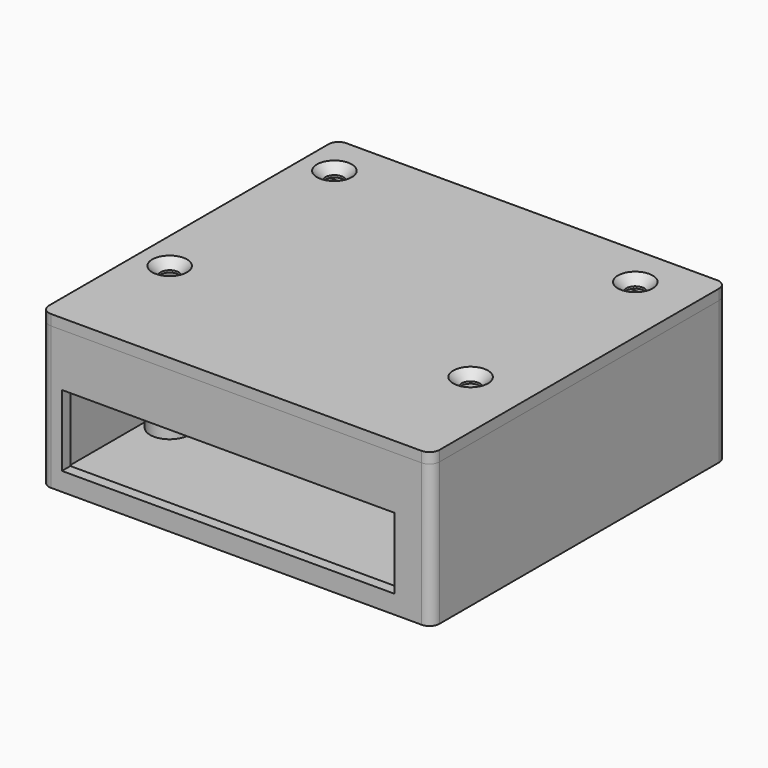
from build123d import *

# Parameters (mm, degrees)
BOX003_W          = 63
BOX003_H          = 10
BOX003_DEPTH      = 13.5
BOX002_W          = 15
BOX002_H          = 14
BOX002_DEPTH      = 8.5
CYLINDER003_R     = 1.7
CYLINDER003_DEPTH = 35
CYLINDER002_R     = 1.7
CYLINDER002_DEPTH = 33
CYLINDER001_R     = 1.7
CYLINDER001_DEPTH = 35
CYLINDER_R        = 1.7
CYLINDER_DEPTH    = 35
CYLINDER007_R     = 3.7
CYLINDER007_DEPTH = 3
CYLINDER006_R     = 3.7
CYLINDER006_DEPTH = 3
CYLINDER005_R     = 3.7
CYLINDER005_DEPTH = 3
CYLINDER004_R     = 3.7
CYLINDER004_DEPTH = 3
BOX_W             = 70
BOX_H             = 66
BOX_DEPTH         = 25
BOX001_W          = 74
BOX001_H          = 70
BOX001_DEPTH      = 27
FILLET_R          = 2
FILLET001_R       = 1.9
CHAMFER001_SIZE   = 1.6
BOX008_W          = 10
BOX008_H          = 10
BOX008_DEPTH      = 2
BOX007_W          = 10
BOX007_H          = 10
BOX007_DEPTH      = 2
BOX006_W          = 64.6
BOX006_H          = 61.6
BOX006_DEPTH      = 2
FILLET004_R       = 1.9
BOX005_W          = 68.6
BOX005_H          = 65.6
BOX005_DEPTH      = 2
FILLET003_R       = 1.9
BOX004_W          = 74
BOX004_H          = 70
BOX004_DEPTH      = 2
FILLET002_R       = 1.9
CHAMFER_SIZE      = 1.6
FILLET005_R       = 1.9


with BuildPart() as obj1:
    # Box003 → Box003 (new body)
    with BuildSketch(Plane(origin=(2, -28, 1.5), x_dir=(1, 0, 0), z_dir=(0, 0, 1))):
        with Locations((31.5, 5)):
            Rectangle(BOX003_W, BOX003_H)
    extrude(amount=BOX003_DEPTH)


with BuildPart() as obj2:
    # Box002 → Box002 (new body)
    with BuildSketch(Plane(origin=(-2, 16, 3), x_dir=(1, 0, 0), z_dir=(0, 0, 1))):
        with Locations((7.5, 7)):
            Rectangle(BOX002_W, BOX002_H)
    extrude(amount=BOX002_DEPTH)


with BuildPart() as zylinder003:
    # Cylinder003 → Cylinder003 (new body)
    with BuildSketch(Plane(origin=(4, 42, -2), x_dir=(1, 0, 0), z_dir=(0, 0, 1))):
        Circle(CYLINDER003_R)
    extrude(amount=CYLINDER003_DEPTH)


with BuildPart() as zylinder002:
    # Cylinder002 → Cylinder002 (new body)
    with BuildSketch(Plane(origin=(61, 42, -2), x_dir=(1, 0, 0), z_dir=(0, 0, 1))):
        Circle(CYLINDER002_R)
    extrude(amount=CYLINDER002_DEPTH)


with BuildPart() as zylinder001:
    # Cylinder001 → Cylinder001 (new body)
    with BuildSketch(Plane(origin=(61, 3, -2), x_dir=(1, 0, 0), z_dir=(0, 0, 1))):
        Circle(CYLINDER001_R)
    extrude(amount=CYLINDER001_DEPTH)


with BuildPart() as zylinder:
    # Cylinder → Cylinder (new body)
    with BuildSketch(Plane(origin=(4, 3, -2), x_dir=(1, 0, 0), z_dir=(0, 0, 1))):
        Circle(CYLINDER_R)
    extrude(amount=CYLINDER_DEPTH)


with BuildPart() as zylinder007:
    # Cylinder007 → Cylinder007 (new body)
    with BuildSketch(Plane(origin=(4, 42, 0), x_dir=(1, 0, 0), z_dir=(0, 0, 1))):
        Circle(CYLINDER007_R)
    extrude(amount=CYLINDER007_DEPTH)


with BuildPart() as zylinder006:
    # Cylinder006 → Cylinder006 (new body)
    with BuildSketch(Plane(origin=(61, 3, 0), x_dir=(1, 0, 0), z_dir=(0, 0, 1))):
        Circle(CYLINDER006_R)
    extrude(amount=CYLINDER006_DEPTH)


with BuildPart() as zylinder005:
    # Cylinder005 → Cylinder005 (new body)
    with BuildSketch(Plane(origin=(61, 42, 0), x_dir=(1, 0, 0), z_dir=(0, 0, 1))):
        Circle(CYLINDER005_R)
    extrude(amount=CYLINDER005_DEPTH)


with BuildPart() as zylinder004:
    # Cylinder004 → Cylinder004 (new body)
    with BuildSketch(Plane(origin=(4, 3, 0), x_dir=(1, 0, 0), z_dir=(0, 0, 1))):
        Circle(CYLINDER004_R)
    extrude(amount=CYLINDER004_DEPTH)


with BuildPart() as obj3:
    # Box → Box (new body)
    with BuildSketch(Plane(origin=(0, -18, 0), x_dir=(1, 0, 0), z_dir=(0, 0, 1))):
        with Locations((35, 33)):
            Rectangle(BOX_W, BOX_H)
    extrude(amount=BOX_DEPTH)


with BuildPart() as housing:
    # Box001 → Box001 (new body)
    with BuildSketch(Plane(origin=(-2, -20, -2), x_dir=(1, 0, 0), z_dir=(0, 0, 1))):
        with Locations((37, 35)):
            Rectangle(BOX001_W, BOX001_H)
    extrude(amount=BOX001_DEPTH)

    # Cut: cut obj3
    add(obj3.part, mode=Mode.SUBTRACT)

    # Fusion: union Zylinder004
    add(zylinder004.part)

    # Fusion001: union Zylinder005
    add(zylinder005.part)

    # Fusion002: union Zylinder006
    add(zylinder006.part)

    # Fusion003: union Zylinder007
    add(zylinder007.part)

    # Cut001: cut Zylinder
    add(zylinder.part, mode=Mode.SUBTRACT)

    # Cut002: cut Zylinder001
    add(zylinder001.part, mode=Mode.SUBTRACT)

    # Cut003: cut Zylinder002
    add(zylinder002.part, mode=Mode.SUBTRACT)

    # Cut004: cut Zylinder003
    add(zylinder003.part, mode=Mode.SUBTRACT)

    # Cut005: cut obj2
    add(obj2.part, mode=Mode.SUBTRACT)

    # Cut006: cut obj1
    add(obj1.part, mode=Mode.SUBTRACT)

    # Fillet
    fillet_edges = [housing.edges().sort_by_distance(p)[0] for p in [
        (-1, 16, 3),
        (-1, 16, 11.5),
        (-1, 30, 3),
        (-1, 30, 11.5),
    ]]
    fillet(fillet_edges, radius=FILLET_R)

    # Fillet001
    fillet001_edges = [housing.edges().sort_by_distance(p)[0] for p in [
        (-2, -20, 11.5),
        (-2, 50, 11.5),
        (72, -20, 11.5),
        (72, 50, 11.5),
        (0, -18, 12.5),
        (0, 48, 12.5),
        (70, -18, 12.5),
        (70, 48, 12.5),
    ]]
    fillet(fillet001_edges, radius=FILLET001_R)

    # Chamfer001
    chamfer001_edges = [housing.edges().sort_by_distance(p)[0] for p in [
        (2.3, 3, -2),
        (59.3, 3, -2),
        (2.3, 42, -2),
        (59.3, 42, -2),
    ]]
    chamfer(chamfer001_edges, length=CHAMFER001_SIZE)


with BuildPart() as obj4:
    # Box008 → Box008 (new body)
    with BuildSketch(Plane(origin=(0, 35.8, 22.99), x_dir=(1, 0, 0), z_dir=(0, 0, 1))):
        with Locations((5, 5)):
            Rectangle(BOX008_W, BOX008_H)
    extrude(amount=BOX008_DEPTH)


with BuildPart() as obj5:
    # Box007 → Box007 (new body)
    with BuildSketch(Plane(origin=(0, -2, 22.99), x_dir=(1, 0, 0), z_dir=(0, 0, 1))):
        with Locations((5, 5)):
            Rectangle(BOX007_W, BOX007_H)
    extrude(amount=BOX007_DEPTH)


with BuildPart() as fillet004:
    # Box006 → Box006 (new body)
    with BuildSketch(Plane(origin=(2.2, -15.8, 23), x_dir=(1, 0, 0), z_dir=(0, 0, 1))):
        with Locations((32.3, 30.8)):
            Rectangle(BOX006_W, BOX006_H)
    extrude(amount=BOX006_DEPTH)

    # Fillet004
    fillet004_edges = [fillet004.edges().sort_by_distance(p)[0] for p in [
        (2.2, -15.8, 24),
        (2.2, 45.8, 24),
        (66.8, -15.8, 24),
        (66.8, 45.8, 24),
    ]]
    fillet(fillet004_edges, radius=FILLET004_R)


with BuildPart() as cut007:
    # Box005 → Box005 (new body)
    with BuildSketch(Plane(origin=(0.2, -17.8, 23), x_dir=(1, 0, 0), z_dir=(0, 0, 1))):
        with Locations((34.3, 32.8)):
            Rectangle(BOX005_W, BOX005_H)
    extrude(amount=BOX005_DEPTH)

    # Fillet003
    fillet003_edges = [cut007.edges().sort_by_distance(p)[0] for p in [
        (0.2, -17.8, 24),
        (0.2, 47.8, 24),
        (68.8, -17.8, 24),
        (68.8, 47.8, 24),
    ]]
    fillet(fillet003_edges, radius=FILLET003_R)

    # Cut007: cut Fillet004
    add(fillet004.part, mode=Mode.SUBTRACT)


with BuildPart() as cap:
    # Box004 → Box004 (new body)
    with BuildSketch(Plane(origin=(-2, -20, 25), x_dir=(1, 0, 0), z_dir=(0, 0, 1))):
        with Locations((37, 35)):
            Rectangle(BOX004_W, BOX004_H)
    extrude(amount=BOX004_DEPTH)

    # Fillet002
    fillet002_edges = [cap.edges().sort_by_distance(p)[0] for p in [
        (-2, -20, 26),
        (-2, 50, 26),
        (72, -20, 26),
        (72, 50, 26),
    ]]
    fillet(fillet002_edges, radius=FILLET002_R)

    # Fusion004: union Cut007
    add(cut007.part)

    # Cut008: cut Zylinder
    add(zylinder.part, mode=Mode.SUBTRACT)

    # Cut009: cut Zylinder001
    add(zylinder001.part, mode=Mode.SUBTRACT)

    # Cut010: cut Zylinder002
    add(zylinder002.part, mode=Mode.SUBTRACT)

    # Cut011: cut Zylinder003
    add(zylinder003.part, mode=Mode.SUBTRACT)

    # Chamfer
    chamfer_edges = [cap.edges().sort_by_distance(p)[0] for p in [
        (2.3, 3, 27),
        (59.3, 3, 27),
        (2.3, 42, 27),
        (59.3, 42, 27),
    ]]
    chamfer(chamfer_edges, length=CHAMFER_SIZE)

    # Cut012: cut obj5
    add(obj5.part, mode=Mode.SUBTRACT)

    # Cut013: cut obj4
    add(obj4.part, mode=Mode.SUBTRACT)

    # Fillet005
    fillet005_edges = [cap.edges().sort_by_distance(p)[0] for p in [
        (1.2, -2, 23),
        (1.2, 35.8, 23),
        (1.2, 8, 23),
    ]]
    fillet(fillet005_edges, radius=FILLET005_R)


solid = Compound([housing.part, cap.part])
